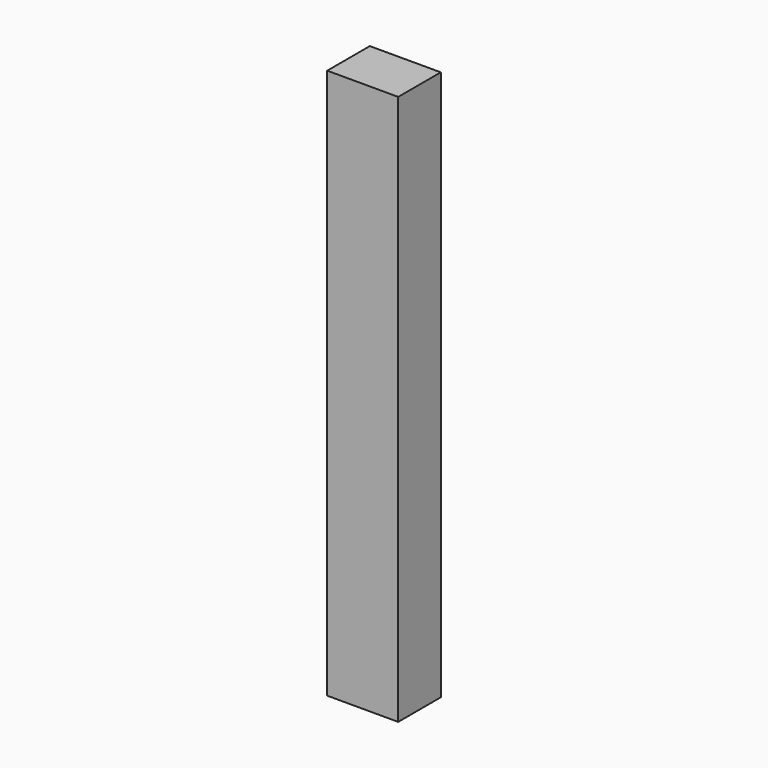
from build123d import *

# Parameters (mm, degrees)
TOWER_W     = 8000
TOWER_H     = 6000
TOWER_DEPTH = 62000


with BuildPart() as part:
    # Tower → Tower (new body)
    with BuildSketch(Plane(origin=(-4000, -9600, 0), x_dir=(1, 0, 0), z_dir=(0, 0, 1))):
        with Locations((4000, 3000)):
            Rectangle(TOWER_W, TOWER_H)
    extrude(amount=TOWER_DEPTH)


solid = part.part
